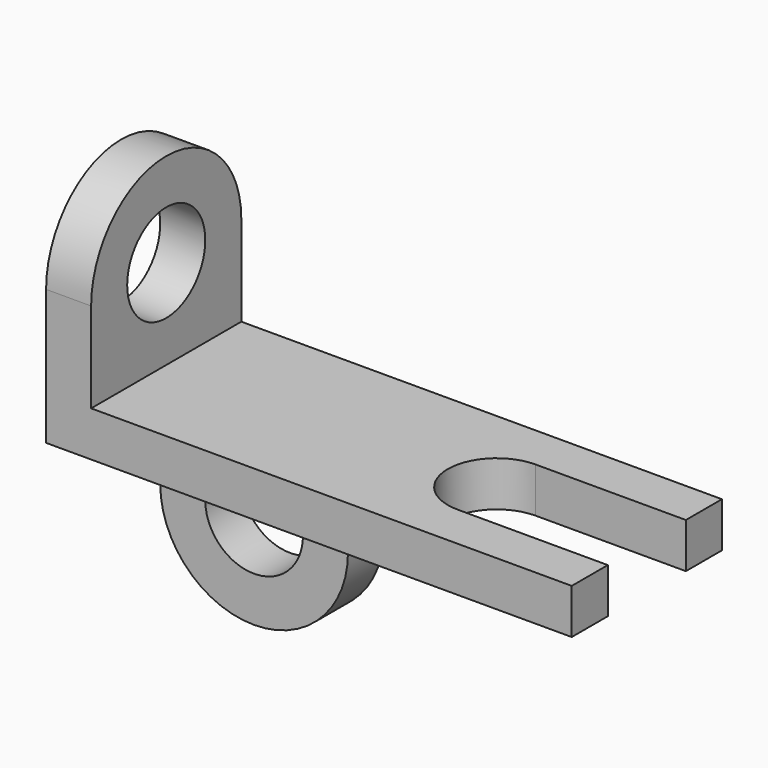
from build123d import *

# Parameters (mm, degrees)
F1_DEPTH = 6
F2_R     = 6.5
F3_DEPTH = 6
F4_R     = 6.5
F5_DEPTH = 6


with BuildPart() as f1:
    # F0 (on Top) → F1 (new body)
    with BuildSketch(Plane.XY):
        with BuildLine():
            Line((-32, -12.5), (32, -12.5))
            Line((32, -12.5), (32, -6.5))
            Line((32, -6.5), (12, -6.5))
            ThreePointArc((12, -6.5), (5.5, 0), (12, 6.5))
            Line((12, 6.5), (32, 6.5))
            Line((32, 6.5), (32, 12.5))
            Line((32, 12.5), (-32, 12.5))
            Line((-32, 12.5), (-32, -12.5))
        make_face()
    extrude(amount=F1_DEPTH)

    # F2 (on face) → F3 (join)
    with BuildSketch(Plane(origin=(-32, 0, 0), x_dir=(0, -1, 0), z_dir=(-1, 0, 0))):
        with BuildLine():
            Line((-12.5, 18), (-12.5, 0))
            Line((-12.5, 0), (12.5, 0))
            Line((12.5, 0), (12.5, 18))
            ThreePointArc((12.5, 18), (0, 30.5), (-12.5, 18))
        make_face()
        with Locations((0, 18)):
            Circle(F2_R, mode=Mode.SUBTRACT)
    extrude(amount=F3_DEPTH)

    # F4 (on face) → F5 (join)
    with BuildSketch(Plane(origin=(0, 12.5, 0), x_dir=(-1, 0, 0), z_dir=(0, 1, 0))):
        with BuildLine():
            Line((38, -12.5), (38, 0))
            Line((38, 0), (13, 0))
            Line((13, 0), (13, -12.5))
            ThreePointArc((13, -12.5), (25.5, -25), (38, -12.5))
        make_face()
        with Locations((25.5, -12.5)):
            Circle(F4_R, mode=Mode.SUBTRACT)
    extrude(amount=-F5_DEPTH)


solid = f1.part
